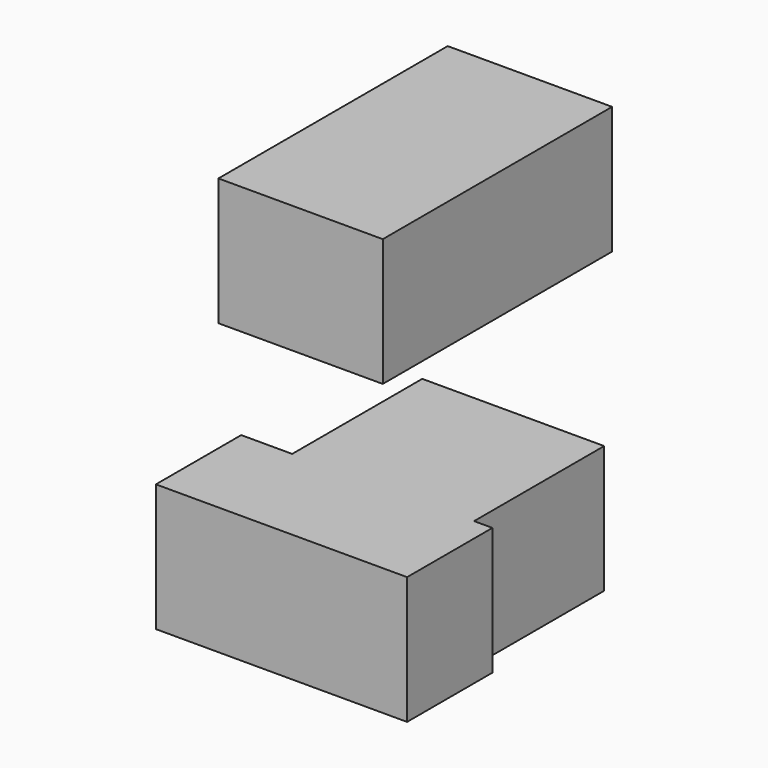
from build123d import *

# Parameters (mm, degrees)
F0_W     = 32.7614396811
F0_H     = 57.125389576
F1_DEPTH = 25.4
F0_W_2   = 36.2505838275
F0_H_2   = 19.3084329367
F0_H_3   = 32.3997586966


with BuildPart() as f1:
    # F0 (on Top) → F1 (new body)
    with BuildSketch(Plane.XY):
        with Locations((-50.5797490478, 162.5544577837)):
            Rectangle(F0_W, F0_H)
    extrude(amount=F1_DEPTH)


with BuildPart() as f1b:
    # F0 (on Top) → F1, piece 2 (new body)
    with BuildSketch(Plane.XY):
        Polygon((36.2505838275, 68.6720013618), (36.2505838275, 49.3635684252), (0, 49.3635684252), (0, 68.6720013618), (-10.1563483477, 68.6720013618), (-10.1563483477, 47.4138110876), (39.9067625403, 47.4138110876), (39.9067625403, 68.6720013618), align=None)
        with Locations((18.1252919137, 59.0177848935)):
            Rectangle(F0_W_2, F0_H_2)
        with Locations((18.1252919137, 84.8718807101)):
            Rectangle(F0_W_2, F0_H_3)
    extrude(amount=F1_DEPTH)


solid = Compound([f1.part, f1b.part])
